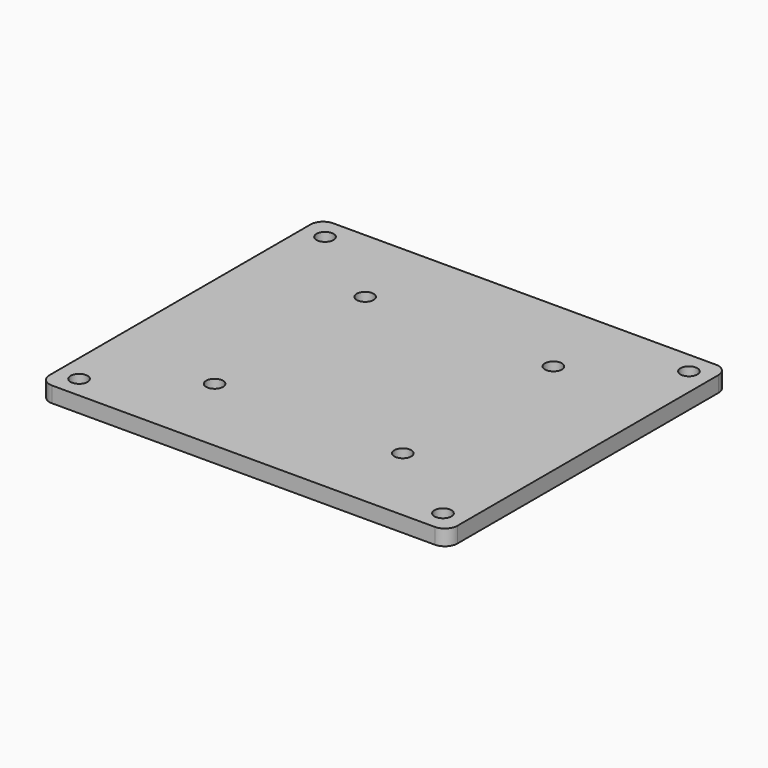
from build123d import *

# Parameters (mm, degrees)
SKETCH_W  = 65
SKETCH_H  = 56
SKETCH_R  = 1.35
PAD_DEPTH = 2.5
FILLET_R  = 2


with BuildPart() as part:
    # Sketch → Pad (new body)
    with BuildSketch(Plane.XY):
        Rectangle(SKETCH_W, SKETCH_H)
        with Locations((15, 15)):
            Circle(SKETCH_R, mode=Mode.SUBTRACT)
        with Locations((15, -15)):
            Circle(SKETCH_R, mode=Mode.SUBTRACT)
        with Locations((-15, -15)):
            Circle(SKETCH_R, mode=Mode.SUBTRACT)
        with Locations((-15, 15)):
            Circle(SKETCH_R, mode=Mode.SUBTRACT)
        with Locations((-29, 24.5)):
            Circle(SKETCH_R, mode=Mode.SUBTRACT)
        with Locations((29, 24.5)):
            Circle(SKETCH_R, mode=Mode.SUBTRACT)
        with Locations((29, -24.5)):
            Circle(SKETCH_R, mode=Mode.SUBTRACT)
        with Locations((-29, -24.5)):
            Circle(SKETCH_R, mode=Mode.SUBTRACT)
    extrude(amount=PAD_DEPTH)

    # Fillet
    fillet_edges = [part.edges().sort_by_distance(p)[0] for p in [
        (-32.5, -28, 1.25),
        (-32.5, 28, 1.25),
        (32.5, -28, 1.25),
        (32.5, 28, 1.25),
    ]]
    fillet(fillet_edges, radius=FILLET_R)


solid = part.part
